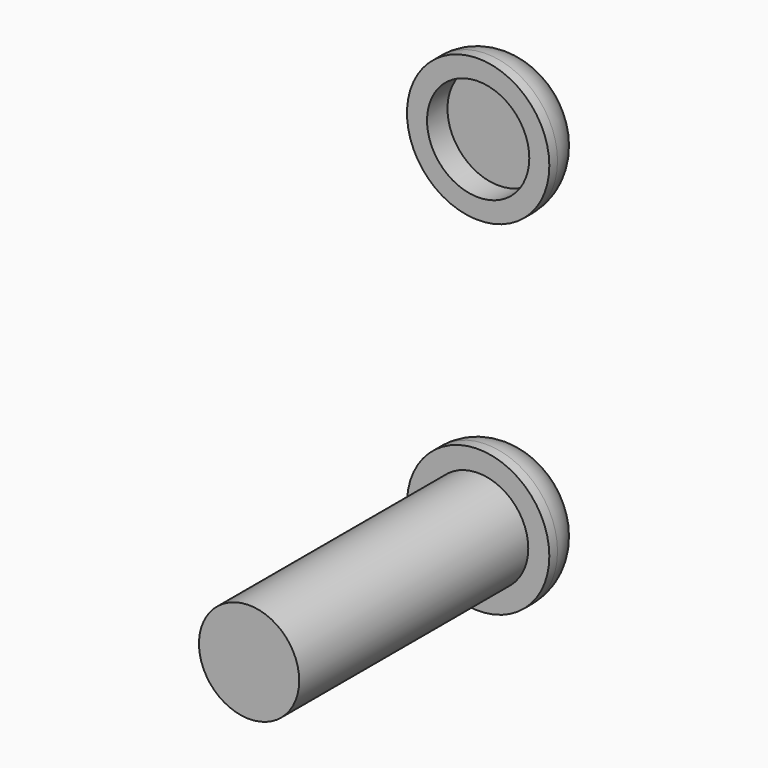
from build123d import *

# Parameters (mm, degrees)
F0_R     = 3.1115
F1_DEPTH = 20.955
F0_R_2   = 4.4196
F2_DEPTH = 3.175
F3_R     = 2.54
F0_R_3   = 3.175
F4_DEPTH = 3.175
F5_DEPTH = 1.5875
F6_R     = 2.54


with BuildPart() as f1:
    # F0 (on Front) → F1 (new body)
    with BuildSketch(Plane.XZ):
        Circle(F0_R)
    extrude(amount=F1_DEPTH)

    # F0 (on Front) → F2 (join)
    with BuildSketch(Plane.XZ):
        Circle(F0_R_2)
        Circle(F0_R, mode=Mode.SUBTRACT)
    extrude(amount=F2_DEPTH)

    # F3
    f3_edges = [f1.edges().sort_by_distance(p)[0] for p in [
        (-4.4196, 0, 0),
    ]]
    fillet(f3_edges, radius=F3_R)


with BuildPart() as f4:
    # F0 (on Front) → F4 (new body)
    with BuildSketch(Plane.XZ):
        with Locations((0, 21.350248)):
            Circle(F0_R_2)
        with Locations((0, 21.350248)):
            Circle(F0_R_3, mode=Mode.SUBTRACT)
    extrude(amount=F4_DEPTH)

    # F0 (on Front) → F5 (join)
    with BuildSketch(Plane.XZ):
        with Locations((0, 21.350248)):
            Circle(F0_R_3)
    extrude(amount=F5_DEPTH)

    # F6
    f6_edges = [f4.edges().sort_by_distance(p)[0] for p in [
        (-4.4196, 0, 21.350248),
    ]]
    fillet(f6_edges, radius=F6_R)


solid = Compound([f1.part, f4.part])
